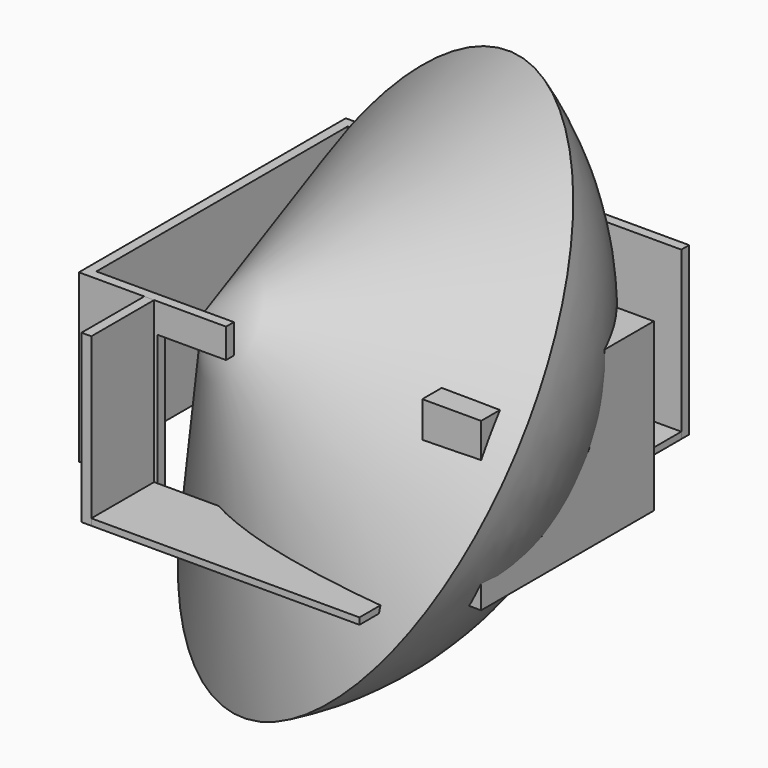
from build123d import *

# Parameters (mm, degrees)
F2_DEPTH = 215.9
F4_DEPTH = 38.1
F6_DEPTH = 8.4666666667
F7_W     = 12.7
F7_H     = 101.6
F8_DEPTH = 215.9


with BuildPart() as f2:
    # F1 (on Top) → F2 (new body)
    with BuildSketch(Plane.XY):
        Polygon((-190.5, 209.55), (190.5, 209.55), (241.3, 209.55), (241.3, 222.25), (190.5, 222.25), (-203.2, 222.25), (-203.2, -209.55), (-190.5, -209.55), (-101.6, -209.55), (-101.6, -197.0600485802), (-190.5, -197.0600485802), (-190.5, 158.75), align=None)
    extrude(amount=F2_DEPTH)

    # F3 (on face) → F4 (join)
    with BuildSketch(Plane.XY.offset(215.9)):
        Polygon((-63.5, -209.55), (-12.7, -209.55), (-12.7, -196.85), (-101.6, -197.0600485802), (-101.6, -209.55), align=None)
    extrude(amount=-F4_DEPTH)


with BuildPart() as f2b:
    # F0 (on Top) → F2, piece 2 (new body)
    with BuildSketch(Plane.XY):
        Polygon((317.5, 69.85), (241.3, 69.85), (241.3, -107.95), (241.3, -209.55), (317.5, -209.55), align=None)
    extrude(amount=F2_DEPTH)

    # F5 (on Top) + F0 (on Top) → F6 (join)
    with BuildSketch(Plane.XY):
        Polygon((241.3, -209.55), (190.5, -209.55), (-105.8333333333, -209.55), (-105.8333333333, -311.15), (241.3, -311.15), align=None)
    with BuildSketch(Plane.XY):
        Polygon((241.3, 209.55), (190.5, 209.55), (190.5, 158.75), (190.5, -67.5782537567), (228.6, -107.95), (241.3, -107.95), (241.3, 69.85), align=None)
        Polygon((228.6, -107.95), (190.5, -67.5782537567), (190.5, -209.55), (241.3, -209.55), (241.3, -107.95), align=None)
    extrude(amount=F6_DEPTH)


with BuildPart() as f8:
    # F7 (on Top) → F8 (new body)
    with BuildSketch(Plane.XY):
        with Locations((-112.1833333333, -260.35)):
            Rectangle(F7_W, F7_H)
    extrude(amount=F8_DEPTH)


with BuildPart() as f14:
    # F13 (on 3pt) → F14 (revolve)
    with BuildSketch(Plane(origin=(45.8365509154, -33.2005977351, 0), x_dir=(0.586609634, 0.8098698274, 0), z_dir=(0.8098698274, -0.586609634, 0))):
        with BuildLine():
            Line((176.5640062484, -6.35), (-186.3872404777, 203.2))
            Line((-186.3872404777, 203.2), (-186.3872404777, -215.9))
            ThreePointArc((-186.3872404777, -215.9), (23.1627595223, -159.7512467261), (176.5640062484, -6.35))
        make_face()
    revolve(axis=Axis((42.9553489975, -37.1783682399, 98.425), (0.5080188452, 0.7013678443, -0.5)))


solid = Compound([f2.part, f2b.part, f8.part, f14.part])
